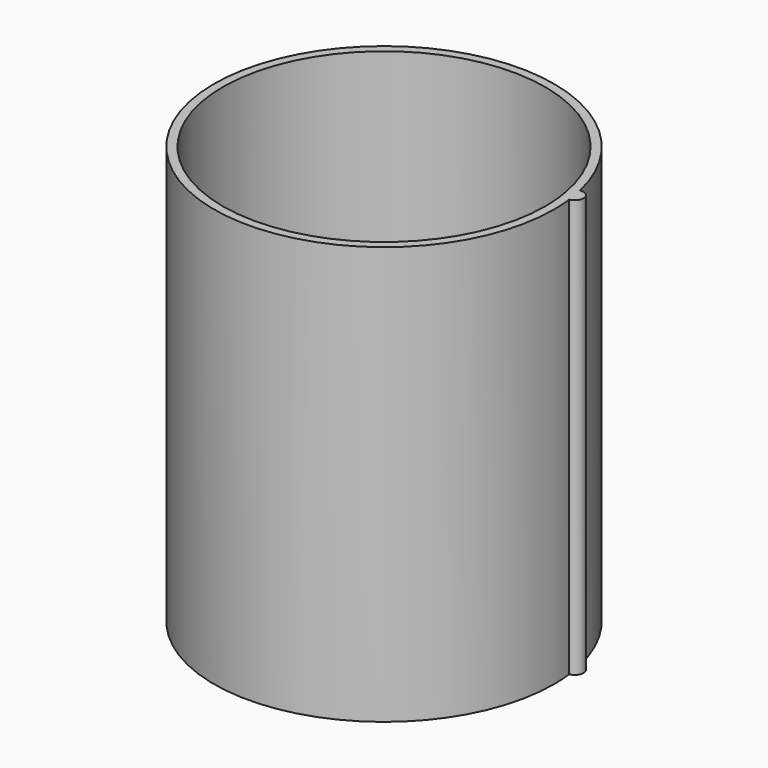
from build123d import *

# Parameters (mm, degrees)
F1_DEPTH = 25.4
F2_DEPTH = 114.3


with BuildPart() as f1:
    # F0 (on Top) → F1 (new body)
    with BuildSketch(Plane.XY):
        with BuildLine():
            ThreePointArc((55.4251293732, 12.5709439398), (-56.4798283961, -6.3247594359), (56.8328566726, 0))
            ThreePointArc((56.8328566726, 0), (56.729110685, 3.4324333158), (56.4182514898, 6.8523351066))
            ThreePointArc((56.4182514898, 6.8523351066), (54.293305605, 7.3721338343), (53.134504139, 9.2276027488))
            ThreePointArc((53.134504139, 9.2276027488), (53.5998616753, 11.3651313519), (55.4251293732, 12.5709439398))
        make_face()
        with BuildLine():
            ThreePointArc((53.9298079227, 0), (-53.7306141081, -4.630905975), (53.134504139, 9.2276027488))
            ThreePointArc((53.134504139, 9.2276027488), (53.7306141081, 4.630905975), (53.9298079227, 0))
        make_face(mode=Mode.SUBTRACT)
        with BuildLine():
            ThreePointArc((53.134504139, 9.2276027488), (54.293305605, 7.3721338343), (56.4182514898, 6.8523351066))
            ThreePointArc((56.4182514898, 6.8523351066), (55.9947415608, 9.7243259465), (55.4251293732, 12.5709439398))
            ThreePointArc((55.4251293732, 12.5709439398), (53.5998616753, 11.3651313519), (53.134504139, 9.2276027488))
        make_face()
        with BuildLine():
            ThreePointArc((55.4251293732, 12.5709439398), (55.9947415608, 9.7243259465), (56.4182514898, 6.8523351066))
            ThreePointArc((56.4182514898, 6.8523351066), (58.1921448026, 7.8271936271), (58.8977903107, 9.7243259465))
            ThreePointArc((58.8977903107, 9.7243259465), (57.8351328365, 11.9694655851), (55.4251293732, 12.5709439398))
        make_face()
    extrude(amount=F1_DEPTH)

    # F2 (add): a face of the model
    f2_faces = [f1.faces().sort_by_distance(p)[0] for p in [
        (-54.3965203947, -9.4467708918, 25.4),
    ]]
    extrude(f2_faces, amount=F2_DEPTH)


solid = f1.part
